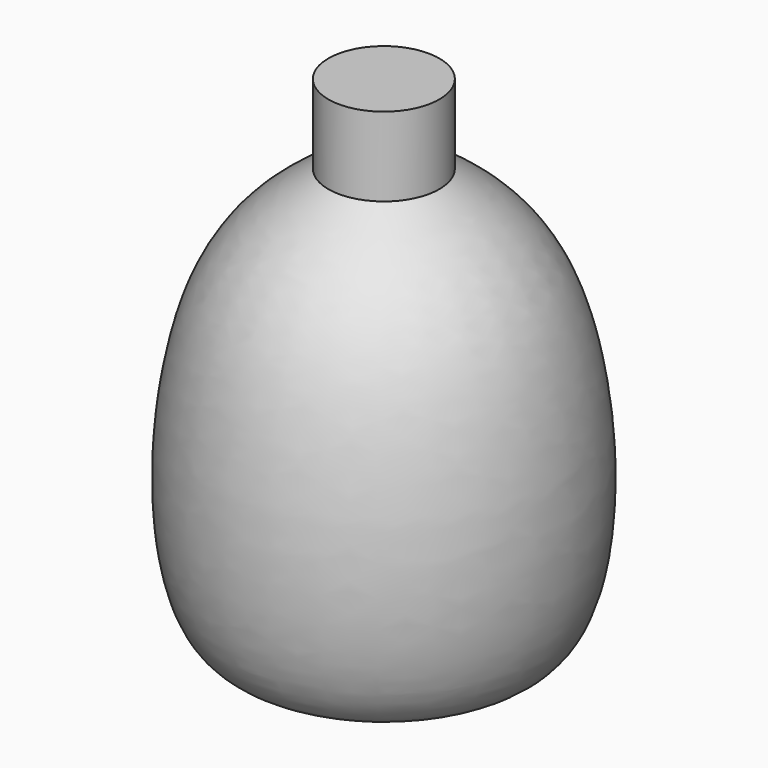
from build123d import *


with BuildPart() as f2:
    # F1 (on Front) → F2 (revolve)
    with BuildSketch(Plane.XZ):
        with BuildLine():
            add(Edge.make_bspline(
                [(0, -56.0623221099), (-17.7522728522, -63.6580093084), (-60.3595173298, -81.8884243168), (-57.7032510903, 37.0349219239), (-29.2211545736, 56.7512061522), (-17.1838533133, 65.0838389993)],
                knots=[0, 0, 0, 0, 0.2919750644, 0.7007695889, 1, 1, 1, 1], degree=3))
            Line((0, -56.0623221099), (0, 89.5708277822))
            Line((0, 89.5708277822), (-17.1838533133, 89.5708277822))
            Line((-17.1838533133, 89.5708277822), (-17.1838533133, 65.0838389993))
        make_face()
    revolve(axis=Axis((0, 0, 7.5179301202), (0, 0, -1)))


solid = f2.part
